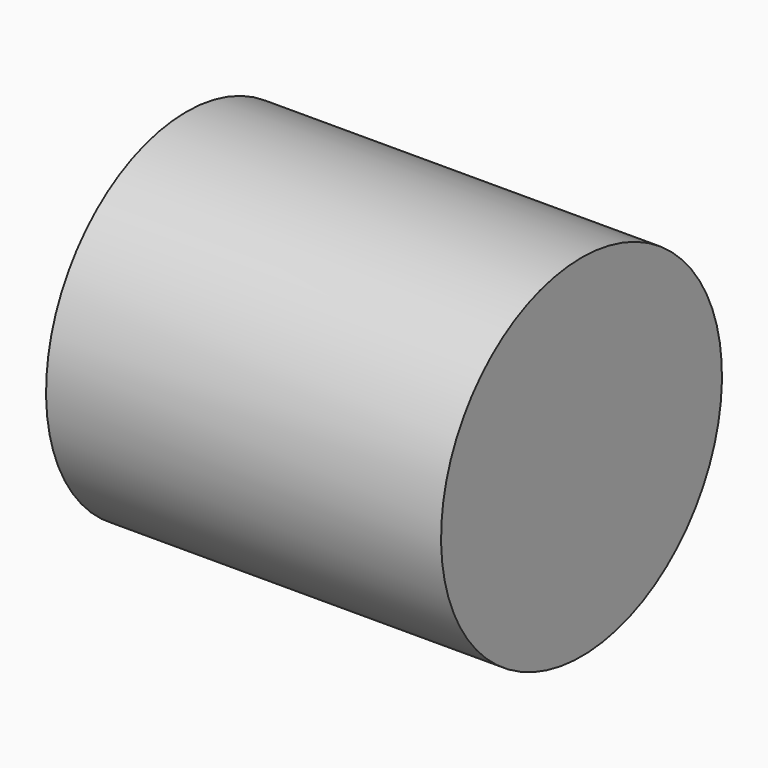
from build123d import *

# Parameters (mm, degrees)
F0_W   = 1.25
F0_H   = 1
F0_W_2 = 0.5


with BuildPart() as f1:
    # F0 (on Front) → F1 (revolve)
    with BuildSketch(Plane.XZ):
        with Locations((-0.625, 0.5)):
            Rectangle(F0_W, F0_H)
        with Locations((-1.5, 0.5)):
            Rectangle(F0_W_2, F0_H)
        with Locations((0.25, 0.5)):
            Rectangle(F0_W_2, F0_H)
    revolve(axis=Axis((-0.625, 0, 0), (-1, 0, 0)))


solid = f1.part
